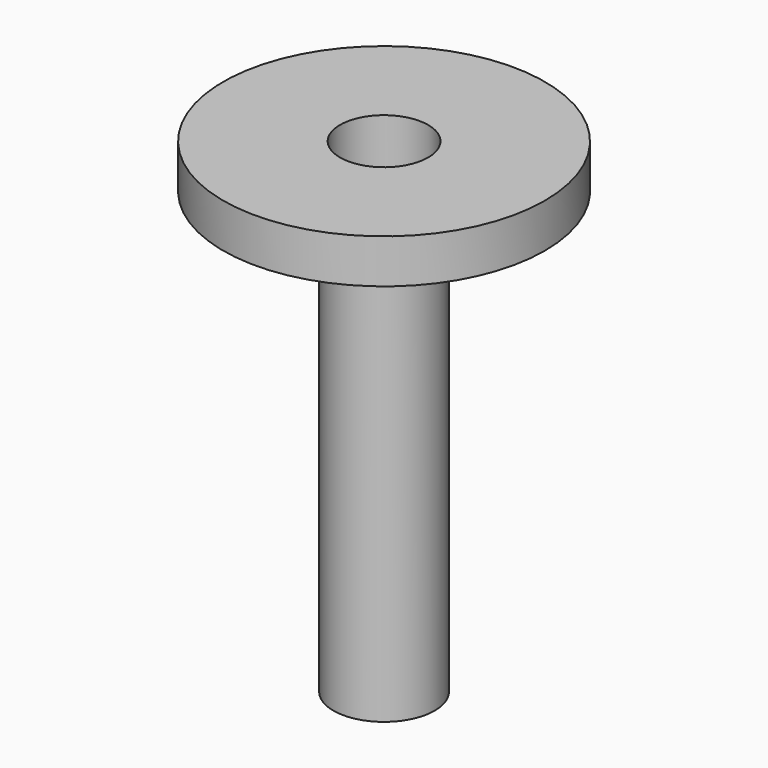
from build123d import *

# Parameters (mm, degrees)
F2_R     = 2.54
F3_DEPTH = 31.75


with BuildPart() as f1:
    # F0 (on Front) → F1 (revolve)
    with BuildSketch(Plane.XZ):
        Polygon((-50.969425, 5.22887), (-50.969425, 30.62887), (-44.619425, 30.62887), (-44.619425, 33.16887), (-53.890425, 33.16887), (-53.890425, 5.22887), align=None)
    revolve(axis=Axis((-53.890425, 0, 19.19887), (0, 0, -1)))

    # F2 (on face) → F3 (cut)
    with BuildSketch(Plane.XY.offset(33.16887)):
        with Locations((-53.890425, 0)):
            Circle(F2_R)
    extrude(amount=-F3_DEPTH, mode=Mode.SUBTRACT)


solid = f1.part
